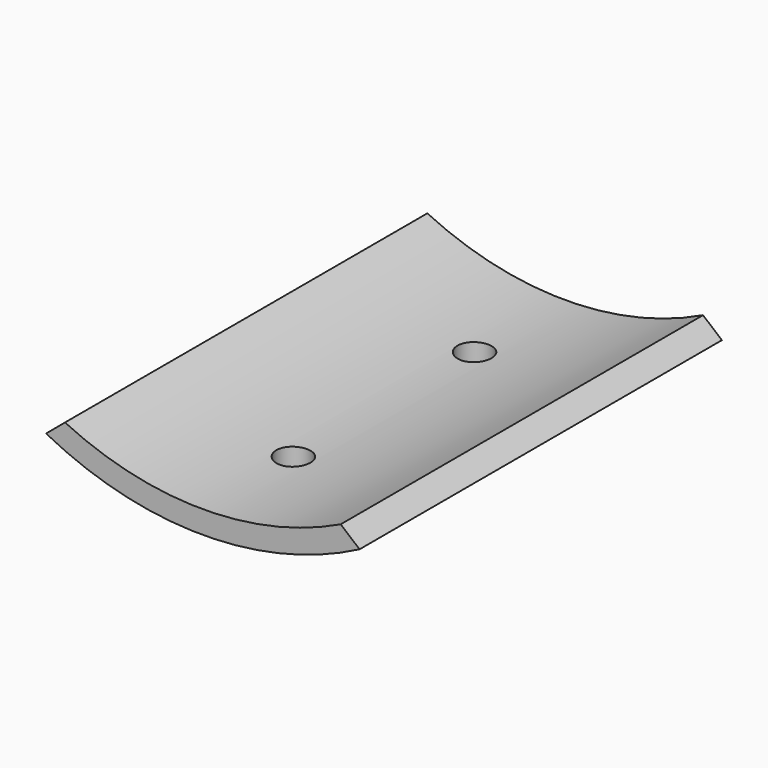
from build123d import *

# Parameters (mm, degrees)
F1_DEPTH = 20
F2_R     = 1.5
F3_DEPTH = 54.84426


with BuildPart() as f1:
    # F0 (on Front) → F1 (new body, symmetric)
    with BuildSketch(Plane.XZ):
        with BuildLine():
            Line((-12.173812, -25.215041), (-13.842699, -26.615403))
            ThreePointArc((-13.842699, -26.615403), (0, -30), (13.842699, -26.615403))
            Line((13.842699, -26.615403), (12.173812, -25.215041))
            ThreePointArc((12.173812, -25.215041), (0, -28), (-12.173812, -25.215041))
        make_face()
    extrude(amount=F1_DEPTH, both=True)

    # F2 (on Top) → F3 (cut)
    with BuildSketch(Plane.XY):
        with Locations((0, -10)):
            Circle(F2_R)
        with Locations((0, 10)):
            Circle(F2_R)
    extrude(amount=-F3_DEPTH, mode=Mode.SUBTRACT)


solid = f1.part
